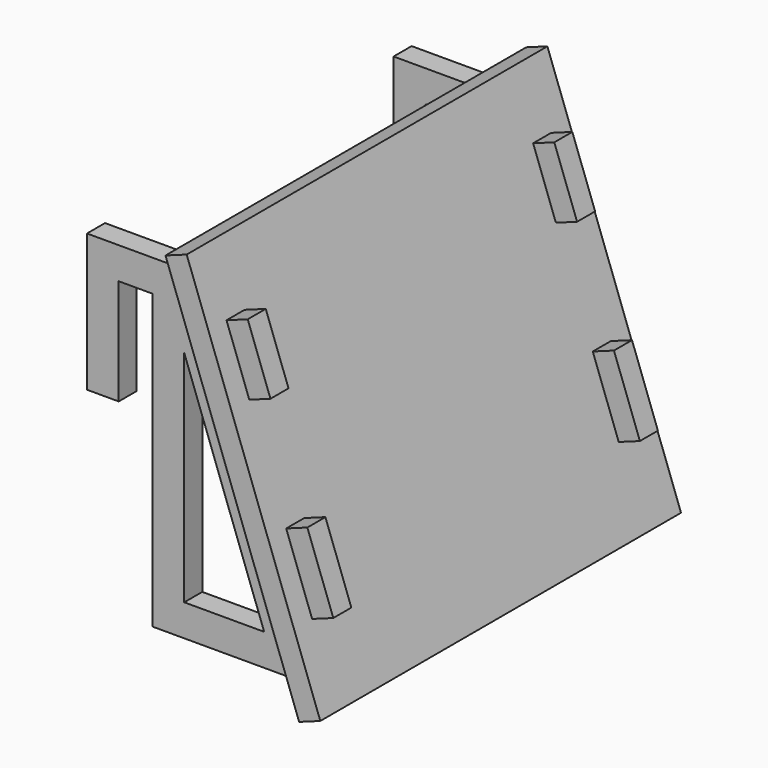
from build123d import *

# Parameters (mm, degrees)
F3_DEPTH = 6.35
F4_W     = 6.35
F4_H     = 18.7495299615
F4_H_2   = 21.3536322117
F5_DEPTH = 12.7
F7_W     = 127
F7_H     = 110.0578334834
F7_W_2   = 6.35
F7_H_2   = 21.3536322117
F7_H_3   = 18.7495299615
F8_DEPTH = 6.35


with BuildPart() as f3:
    # F2 (on offset) → F3 (new body)
    with BuildSketch(Plane.XZ.offset(50.8)):
        Polygon((0, 0), (8.9364377001, 0), (8.9364377001, 29.8155217013), (18.4614377001, 29.8155217013), (18.4614377001, -52.7344782987), (62.6683148833, -52.7344782987), (29.3699747215, 38.7519594014), (0, 38.7519594014), align=None)
        Polygon((27.3978754002, 18.0418618862), (49.9057591946, -43.7980405986), (27.3978754002, -43.7980405986), align=None, mode=Mode.SUBTRACT)
    extrude(amount=F3_DEPTH)

    # F4 (on face) → F5 (join)
    with BuildSketch(Plane(origin=(38.3889800028, 0, 13.9724460449), x_dir=(0, 1, 0), z_dir=(0.9396926208, 0, 0.3420201433))):
        with Locations((-53.975, 5.3904128727)):
            Rectangle(F4_W, F4_H)
        with Locations((-53.975, -45.0423508883)):
            Rectangle(F4_W, F4_H_2)
    extrude(amount=F5_DEPTH)


with BuildPart() as f6_1:
    # F6: instance of F3
    add(f3.part.mirror(Plane.XZ))


with BuildPart() as f8:
    # F7 (on face) → F8 (new body)
    with BuildSketch(Plane(origin=(38.3889800028, 0, 13.9724460449), x_dir=(0, 1, 0), z_dir=(0.9396926208, 0, 0.3420201433))):
        with Locations((0, -22.309109415)):
            Rectangle(F7_W, F7_H)
        with Locations((-53.975, -45.0423508883)):
            Rectangle(F7_W_2, F7_H_2, mode=Mode.SUBTRACT)
        with Locations((53.975, -45.0423508883)):
            Rectangle(F7_W_2, F7_H_2, mode=Mode.SUBTRACT)
        with Locations((-53.975, 5.3904128727)):
            Rectangle(F7_W_2, F7_H_3, mode=Mode.SUBTRACT)
        with Locations((53.975, 5.3904128727)):
            Rectangle(F7_W_2, F7_H_3, mode=Mode.SUBTRACT)
    extrude(amount=F8_DEPTH)


solid = Compound([f3.part, f6_1.part, f8.part])
